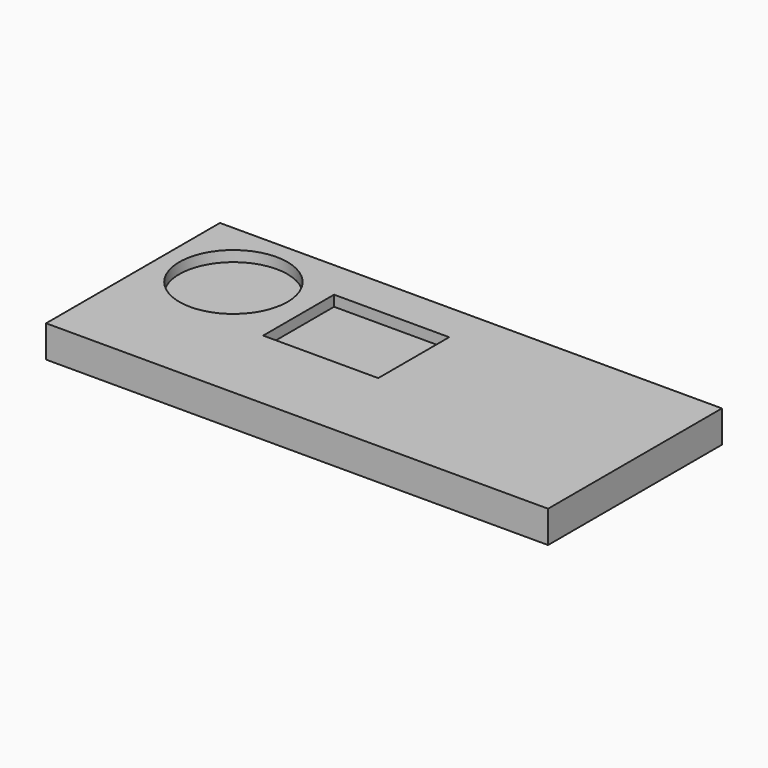
from build123d import *

# Parameters (mm, degrees)
F0_W     = 235.307321
F0_H     = 101.85823
F1_DEPTH = 15
F2_R     = 25.336602
F3_DEPTH = 5
F4_W     = 53.954252
F4_H     = 41.550964
F5_DEPTH = 5


with BuildPart() as f1:
    # F0 (on Top) → F1 (new body)
    with BuildSketch(Plane.XY):
        with Locations((117.653661, 52.72521)):
            Rectangle(F0_W, F0_H)
    extrude(amount=F1_DEPTH)

    # F2 (on face) → F3 (cut)
    with BuildSketch(Plane.XY.offset(15)):
        with Locations((33.09346, 70.193075)):
            Circle(F2_R)
    extrude(amount=-F3_DEPTH, mode=Mode.SUBTRACT)

    # F4 (on face) → F5 (cut)
    with BuildSketch(Plane.XY.offset(15)):
        with Locations((95.118355, 64.582877)):
            Rectangle(F4_W, F4_H)
    extrude(amount=-F5_DEPTH, mode=Mode.SUBTRACT)


solid = f1.part
